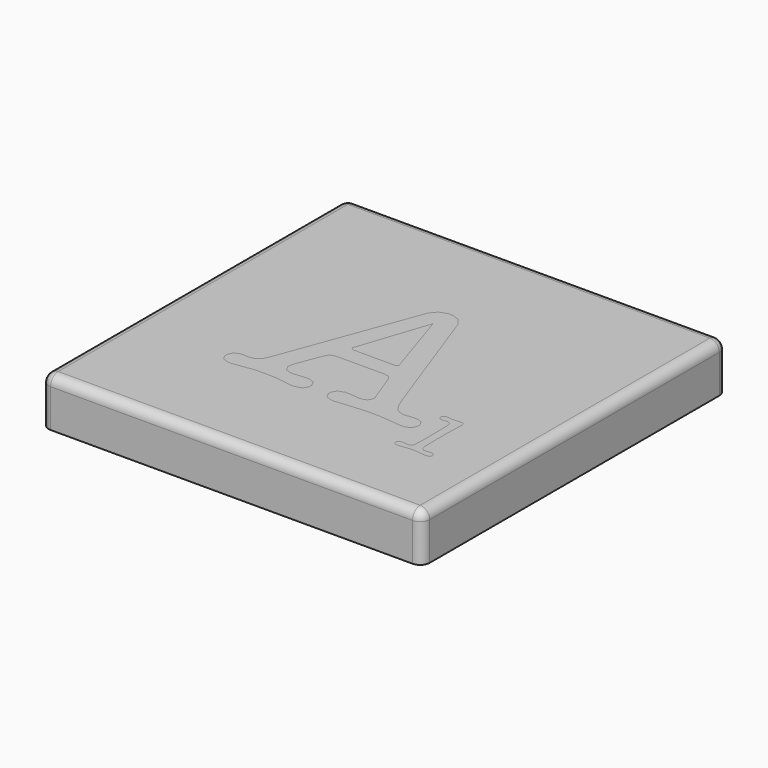
from build123d import *

# Parameters (mm, degrees)
F0_W     = 40
F0_H     = 40
F1_DEPTH = 5
F2_R     = 1
F5_DEPTH = 3


with BuildPart() as f1:
    # F0 (on Top) → F1 (new body)
    with BuildSketch(Plane.XY):
        Rectangle(F0_W, F0_H)
    extrude(amount=-F1_DEPTH)

    # F2
    f2_edges = [f1.edges().sort_by_distance(p)[0] for p in [
        (0, -20, 0),
        (20, 0, 0),
        (0, 20, 0),
        (-20, 0, 0),
        (-20, 20, -2.5),
        (20, 20, -2.5),
        (-20, -20, -2.5),
        (20, -20, -2.5),
    ]]
    fillet(f2_edges, radius=F2_R)


with BuildPart() as f5:
    # F4 (on Top) + F3 (on Top) → F5 (new body)
    with BuildSketch(Plane.XY):
        Polygon((11.930221, -6.823434), (11.959151, -9.585023), (11.959151, -9.806867), (11.939873, -10.472474), (11.895753, -10.898279), (11.883358, -10.942374), (11.869591, -10.985097), (11.576068, -11.204197), (11.474087, -11.204197), (11.410689, -11.204197), (11.224659, -11.189033), (11.187448, -11.18629), (11.161261, -11.180778), (10.965579, -11.157359), (10.892554, -11.157359), (10.804366, -11.157359), (10.541145, -11.240036), (10.425398, -11.427438), (10.425398, -11.490836), (10.425398, -11.554234), (10.527379, -11.747147), (10.757503, -11.833965), (10.834668, -11.833965), (10.940789, -11.833965), (11.263242, -11.792639), (11.321129, -11.78573), (11.421713, -11.770566), (12.09146, -11.70031), (12.349143, -11.70031), (12.620618, -11.70031), (13.435044, -11.787127), (13.568698, -11.805034), (13.592117, -11.807777), (13.796079, -11.824313), (13.873244, -11.824313), (13.951807, -11.824313), (14.187442, -11.740264), (14.293538, -11.552837), (14.293538, -11.490836), (14.293538, -11.427438), (14.17779, -11.240036), (13.921479, -11.157359), (13.836033, -11.157359), (13.556303, -11.176638), (13.521861, -11.180778), (13.486021, -11.184918), (13.2862, -11.204197), (13.207663, -11.204197), (13.126357, -11.204197), (12.882441, -11.038843), (12.770808, -10.655735), (12.769437, -10.54687), (12.769437, -10.373236), (12.752901, -9.856473), (12.750158, -9.757261), (12.747389, -9.674584), (12.740506, -8.966279), (12.740506, -7.890005), (12.740506, -7.469711), (12.779089, -6.211573), (12.787344, -6.042053), (12.788741, -6.007636), (12.796996, -5.869841), (12.796996, -5.813326), (12.796996, -5.743045), (12.765296, -5.532199), (12.759785, -5.518432), (12.75153, -5.497757), (12.5655, -5.394404), (12.502102, -5.394404), (12.423565, -5.394404), (12.187904, -5.417823), (12.139669, -5.423309), (12.106598, -5.426103), (11.760726, -5.442613), (11.635327, -5.442613), (11.551253, -5.442613), (11.299081, -5.421938), (11.259102, -5.417823), (11.217776, -5.413683), (10.990395, -5.394404), (10.902206, -5.394404), (10.814018, -5.394404), (10.549426, -5.643807), (10.549426, -5.727881), (10.549426, -5.789882), (10.641755, -5.977334), (10.851203, -6.061357), (10.921485, -6.061357), (10.982115, -6.061357), (11.166773, -6.040682), (11.1971, -6.037939), (11.227428, -6.033798), (11.403806, -6.013123), (11.474087, -6.013123), (11.559533, -6.013123), (11.815844, -6.148175), (11.831008, -6.175759), (11.846147, -6.201946), (11.928849, -6.742103), align=None)
    with BuildSketch(Plane.XY):
        Polygon((3.015818, -3.281121), (3.969461, -5.873191), (4.003878, -5.96966), (4.180281, -6.389954), (4.180281, -6.562217), (4.180281, -6.695897), (3.961155, -7.096887), (3.47058, -7.276033), (3.307994, -7.276033), (3.150895, -7.276033), (2.683713, -7.231939), (2.606573, -7.223684), (2.529383, -7.214032), (2.080158, -7.169937), (1.905127, -7.169937), (1.686027, -7.169937), (1.031443, -7.39455), (0.740689, -7.900289), (0.740689, -8.069783), (0.740689, -8.237906), (1.005281, -8.743645), (1.600581, -8.969654), (1.799031, -8.969654), (1.986458, -8.969654), (2.552802, -8.924163), (2.646528, -8.915908), (3.011703, -8.880069), (4.537177, -8.757437), (5.500446, -8.705063), (5.821528, -8.705063), (6.079211, -8.705063), (6.852285, -8.750554), (8.029143, -8.858021), (8.307476, -8.889721), (8.386064, -8.898001), (8.882126, -8.943467), (9.075064, -8.943467), (9.262491, -8.943467), (9.828835, -8.717458), (10.081031, -8.211718), (10.081031, -8.043621), (10.081031, -7.883754), (9.828835, -7.406945), (9.262491, -7.196125), (9.075064, -7.196125), (8.335086, -7.249871), (8.317154, -7.253986), (8.095285, -7.276033), (8.016723, -7.276033), (7.863764, -7.276033), (7.407656, -7.176821), (7.019036, -6.9453), (6.958406, -6.879158), (6.896379, -6.813017), (6.56844, -6.270066), (6.212865, -5.446014), (6.138469, -5.239309), (1.402156, 7.885151), (1.335989, 8.071155), (0.799948, 8.718829), (0.04064, 8.995842), (-0.211531, 8.995842), (-0.471983, 8.995842), (-1.250569, 8.718829), (-1.808658, 8.071155), (-1.878965, 7.885151), (-6.799936, -5.423967), (-6.861937, -5.594833), (-7.118248, -6.249391), (-7.302906, -6.631127), (-7.329094, -6.666941), (-7.391121, -6.75927), (-7.785227, -7.08312), (-8.256524, -7.223684), (-8.413623, -7.223684), (-8.758123, -7.223684), (-8.77603, -7.218172), (-8.996528, -7.196125), (-9.075064, -7.196125), (-9.263863, -7.196125), (-9.830232, -7.42762), (-10.081031, -7.948524), (-10.081031, -8.122158), (-10.081031, -8.284769), (-9.823348, -8.776716), (-9.243187, -8.995842), (-9.048902, -8.995842), (-8.809101, -8.995842), (-8.088401, -8.906256), (-7.964373, -8.889721), (-6.852285, -8.73125), (-6.791655, -8.721598), (-5.880786, -8.678875), (-5.555539, -8.678875), (-5.267554, -8.678875), (-4.400779, -8.721598), (-4.338752, -8.73125), (-3.015844, -8.915908), (-2.955188, -8.924163), (-2.580361, -8.969654), (-2.434311, -8.969654), (-2.21107, -8.969654), (-1.541323, -8.750554), (-1.243686, -8.258581), (-1.243686, -8.095971), (-1.243686, -7.922336), (-1.515161, -7.401433), (-2.125624, -7.169937), (-2.328189, -7.169937), (-2.4908, -7.169937), (-2.974492, -7.214032), (-3.055798, -7.223684), (-3.1385, -7.231939), (-3.622192, -7.276033), (-3.809594, -7.276033), (-4.003904, -7.276033), (-4.58404, -7.063816), (-4.841748, -6.588404), (-4.841748, -6.429934), (-4.841748, -6.301765), (-4.753534, -5.921426), (-4.735627, -5.873191), (-3.968039, -3.836467), (-3.915689, -3.698672), (-3.681425, -3.173628), (-3.485744, -2.860827), (-3.452673, -2.830474), (-3.419577, -2.798801), (-2.906954, -2.645842), (-2.725064, -2.645842), (1.985086, -2.645842), (2.151786, -2.645842), (2.656154, -2.734031), (2.685085, -2.751938), (2.714066, -2.768498), (2.989656, -3.209468), align=None)
        Polygon((-0.317652, 6.826809), (2.063598, -0.476809), (2.071903, -0.502996), (2.117369, -0.633908), (2.117369, -0.687629), (2.117369, -0.740029), (1.877593, -0.899871), (1.799031, -0.899871), (-2.408149, -0.899871), (-2.507336, -0.899871), (-2.805024, -0.720725), (-2.805024, -0.661467), (-2.805024, -0.621487), (-2.760904, -0.502996), (-2.751252, -0.476809), align=None, mode=Mode.SUBTRACT)
    extrude(amount=-F5_DEPTH)


solid = Compound([f1.part, f5.part])
